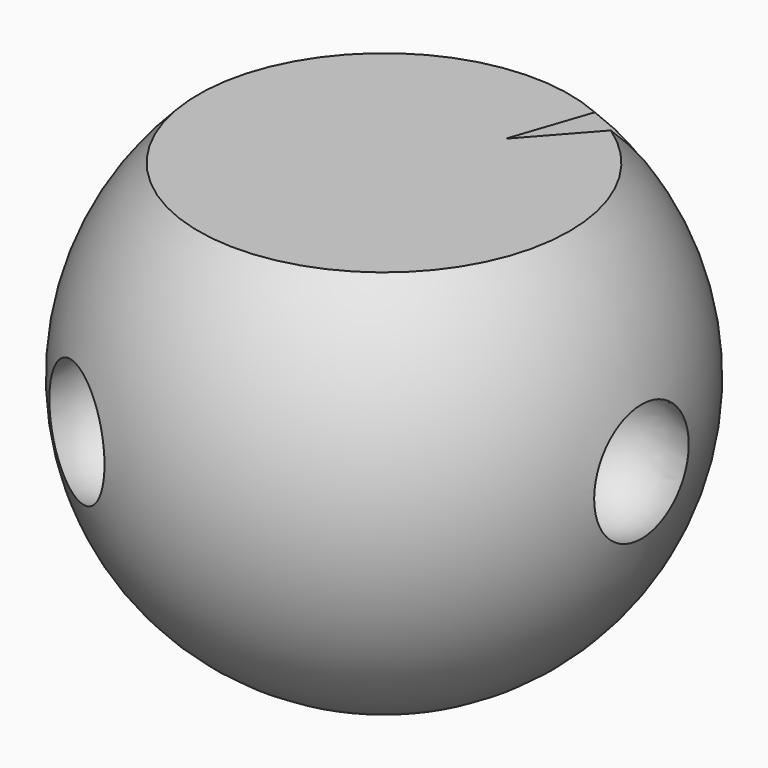
from build123d import *

# Parameters (mm, degrees)
F4_R      = 3.25
F6_DEPTH  = 25.4
F5_R      = 13.27112349
F7_DEPTH  = 25.4
F31_DEPTH = 18.5


with BuildPart() as f1:
    # F0 (on Front) → F1 (revolve)
    with BuildSketch(Plane.XZ):
        with BuildLine():
            Line((0, 4.6), (0, -4.6))
            ThreePointArc((0, -4.6), (4.6, 0), (0, 4.6))
        make_face()
    revolve(axis=Axis((0, 0, 0), (0, 0, -1)))

    # F4 (on offset) → F6 (cut)
    with BuildSketch(Plane.XY.offset(3.2766)):
        Circle(F4_R)
    extrude(amount=F6_DEPTH, mode=Mode.SUBTRACT)

    # F5 (on offset) → F7 (cut)
    with BuildSketch(Plane.XY.offset(-4.223)):
        with Locations((-3.4608042333, 0)):
            Circle(F5_R)
    extrude(amount=-F7_DEPTH, mode=Mode.SUBTRACT)

    # F14 (on offset) → F15 (revolve, cut)
    with BuildSketch(Plane.YZ.offset(4.03)):
        with BuildLine():
            Line((0, 1.125), (0, 0))
            Line((0, 0), (0, -1.125))
            ThreePointArc((0, -1.125), (1.125, 0), (0, 1.125))
        make_face()
    revolve(axis=Axis((4.03, 0, 0), (0, 0, 1)), mode=Mode.SUBTRACT)

    # F18 (on offset) → F19 (revolve, cut)
    with BuildSketch(Plane(origin=(-2.015, 3.4900823773, 0), x_dir=(-0.8660254038, -0.5, 0), z_dir=(-0.5, 0.8660254038, 0))):
        with BuildLine():
            Line((0, 1.125), (0, 0))
            Line((0, 0), (0, -1.125))
            ThreePointArc((0, -1.125), (1.125, 0), (0, 1.125))
        make_face()
    revolve(axis=Axis((-2.015, 3.4900823773, 0), (0, 0, 1)), mode=Mode.SUBTRACT)

    # F22 (on offset) → F23 (revolve, cut)
    with BuildSketch(Plane(origin=(-2.015, -3.4900823773, 0), x_dir=(0.8660254038, -0.5, 0), z_dir=(-0.5, -0.8660254038, 0))):
        with BuildLine():
            Line((0, 1.125), (0, 0))
            Line((0, 0), (0, -1.125))
            ThreePointArc((0, -1.125), (1.125, 0), (0, 1.125))
        make_face()
    revolve(axis=Axis((-2.015, -3.4900823773, 0), (0, 0, 1)), mode=Mode.SUBTRACT)

    # F30 (on line) → F31 (cut)
    with BuildSketch(Plane(origin=(1.7017461736, 3.1961051858, -2.4250315045), x_dir=(0.9206065089, -0.3110824678, 0.2360325274), z_dir=(-0.3904915566, -0.7333949731, 0.5564603828))):
        Polygon((1.0608299635, 3.5694248509), (1.8751677126, 4.5393242035), (1.0608299635, 4.8561265068), align=None)
    extrude(amount=F31_DEPTH, mode=Mode.SUBTRACT)


solid = f1.part
